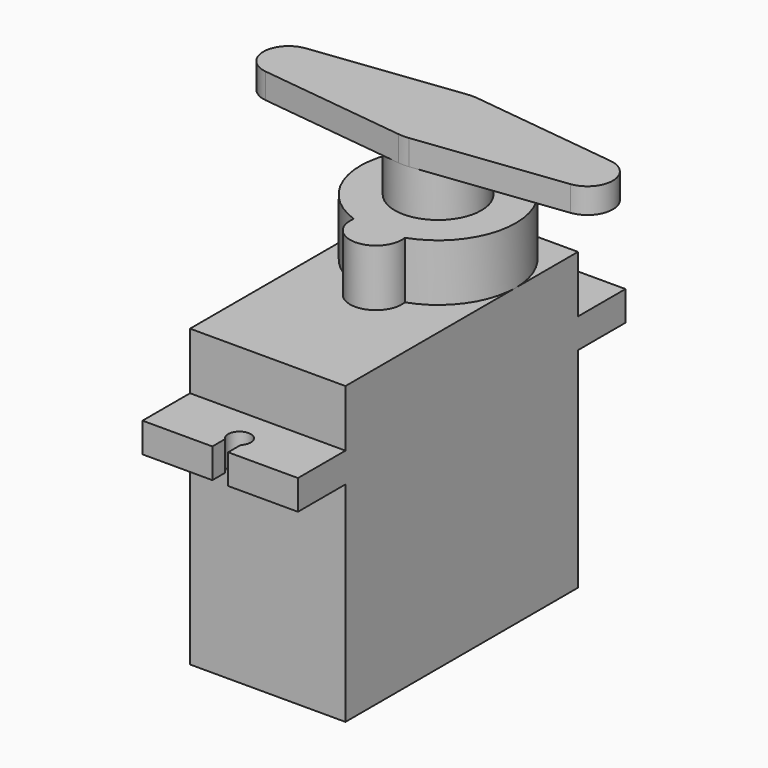
from build123d import *

# Parameters (mm, degrees)
F0_W      = 12.3
F0_H      = 23.4
F1_DEPTH  = 11.5
F4_DEPTH  = 2.35
F5_W      = 4.85
F5_H      = 2.35
F6_DEPTH  = 1
F8_DEPTH  = 4.5
F9_R      = 3.425
F10_DEPTH = 5.45
F12_DEPTH = 2


with BuildPart() as f1:
    # F0 (on Front) → F1 (new body, symmetric)
    with BuildSketch(Plane.XZ):
        Rectangle(F0_W, F0_H)
    extrude(amount=F1_DEPTH, both=True)

    # F3 (on offset) → F4 (join)
    with BuildSketch(Plane.XY.offset(7.2)):
        with BuildLine():
            Line((-6.15, -11.5), (-6.15, -16.2))
            Line((-6.15, -16.2), (-0.625, -16.2))
            Line((-0.625, -16.2), (-0.625, -14.95))
            ThreePointArc((-0.625, -14.95), (0, -13.402408), (0.625, -14.95))
            Line((0.625, -14.95), (0.625, -16.2))
            Line((0.625, -16.2), (6.15, -16.2))
            Line((6.15, -16.2), (6.15, -11.5))
            Line((6.15, -11.5), (-6.15, -11.5))
        make_face()
        with BuildLine():
            ThreePointArc((0.625, 14.95), (0, 13.402408), (-0.625, 14.95))
            Line((-0.625, 14.95), (-0.625, 16.2))
            Line((-0.625, 16.2), (-6.15, 16.2))
            Line((-6.15, 16.2), (-6.15, 11.5))
            Line((-6.15, 11.5), (6.15, 11.5))
            Line((6.15, 11.5), (6.15, 16.2))
            Line((6.15, 16.2), (0.625, 16.2))
            Line((0.625, 16.2), (0.625, 14.95))
        make_face()
    extrude(amount=-F4_DEPTH)

    # F5 (on face) → F6 (join)
    with BuildSketch(Plane(origin=(0, 11.5, 0), x_dir=(-1, 0, 0), z_dir=(0, 1, 0))):
        with Locations((0, -6.775)):
            Rectangle(F5_W, F5_H)
    extrude(amount=F6_DEPTH)

    # F7 (on face) → F8 (join)
    with BuildSketch(Plane.XY.offset(11.7)):
        with BuildLine():
            ThreePointArc((-2.017188, -0.459772), (0, -2.845679), (2.017188, -0.459772))
            ThreePointArc((2.017188, -0.459772), (0, 11.5), (-2.017188, -0.459772))
        make_face()
    extrude(amount=F8_DEPTH)


with BuildPart() as f10:
    # F9 (on face) → F10 (new body)
    with BuildSketch(Plane.XY.offset(16.2)):
        with Locations((0, 5.35)):
            Circle(F9_R)
    extrude(amount=F10_DEPTH)

    # F11 (on face) → F12 (join)
    with BuildSketch(Plane.XY.offset(21.65)):
        with BuildLine():
            Line((-0.412738, 8.75004), (-12.066015, 7.335425))
            ThreePointArc((-12.066015, 7.335425), (-13.825, 5.35), (-12.066015, 3.364575))
            Line((-12.066015, 3.364575), (-0.412738, 1.94996))
            ThreePointArc((-0.412738, 1.94996), (0, 1.925), (0.412738, 1.94996))
            Line((0.412738, 1.94996), (12.066015, 3.364575))
            ThreePointArc((12.066015, 3.364575), (13.825, 5.35), (12.066015, 7.335425))
            Line((12.066015, 7.335425), (0.412738, 8.75004))
            ThreePointArc((0.412738, 8.75004), (0, 8.775), (-0.412738, 8.75004))
        make_face()
    extrude(amount=-F12_DEPTH)


solid = Compound([f1.part, f10.part])
